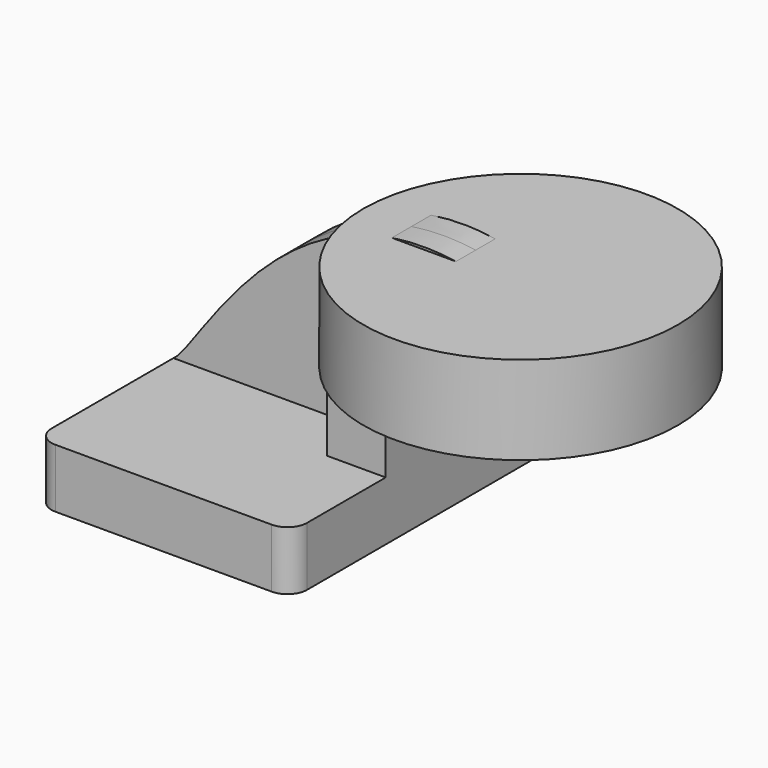
from build123d import *

# Parameters (mm, degrees)
F1_DEPTH = 63.5
F0_W     = 25.4
F0_H     = 19.05
F2_DEPTH = 25.4
F3_DEPTH = 7.9375
F5_R     = 6.35


with BuildPart() as f1:
    # F0 (on Front) → F1 (new body, symmetric)
    with BuildSketch(Plane.XZ):
        Polygon((-41.275, -9.525), (41.275, -9.525), (41.275, 9.525), (22.225, 9.525), (-41.275, 9.525), align=None)
    extrude(amount=F1_DEPTH, both=True)

    # F0 (on Front) → F2 (join, symmetric)
    with BuildSketch(Plane.XZ):
        with BuildLine():
            Line((22.225, 9.525), (41.275, 9.525))
            Line((41.275, 9.525), (41.275, 30.3276))
            ThreePointArc((41.275, 30.3276), (45.9246798487, 41.5529201513), (57.15, 46.2026))
            Line((57.15, 46.2026), (64.5218447655, 46.2026))
            Line((64.5218447655, 46.2026), (64.5218447655, 65.2526))
            Line((64.5218447655, 65.2526), (57.15, 65.2526))
            ThreePointArc((57.15, 65.2526), (32.4542956671, 55.0233043329), (22.225, 30.3276))
            Line((22.225, 30.3276), (22.225, 9.525))
        make_face()
        with Locations((77.2218447655, 55.7276)):
            Rectangle(F0_W, F0_H)
    extrude(amount=F2_DEPTH, both=True)

    # F0 (on Front) → F3 (join, symmetric)
    with BuildSketch(Plane.XZ):
        with BuildLine():
            add(Edge.make_bspline(
                [(-41.275, 9.525), (-32.8745953739, 14.7935664281), (-3.6162044853, 80.2140161395), (57.15, 65.2526)],
                knots=[0, 0, 0, 0, 113.1063483044, 113.1063483044, 113.1063483044, 113.1063483044], degree=3))
            Line((-41.275, 9.525), (22.225, 9.525))
            Line((22.225, 9.525), (22.225, 30.3276))
            ThreePointArc((22.225, 30.3276), (32.4542956671, 55.0233043329), (57.15, 65.2526))
        make_face()
    extrude(amount=F3_DEPTH, both=True)

    # F0 (on Front) → F4 (revolve)
    with BuildSketch(Plane.XZ):
        Polygon((64.5218447655, 66.675), (64.5218447655, 65.2526), (89.9218447655, 65.2526), (89.9218447655, 46.2026), (89.9218447655, 38.1), (115.3218447655, 38.1), (115.3218447655, 66.675), align=None)
    revolve(axis=Axis((64.5218447655, 0, 52.3875), (0, 0, 1)))

    # F5
    f5_edges = [f1.edges().sort_by_distance(p)[0] for p in [
        (41.275, -63.5, 0),
        (-41.275, -63.5, 0),
        (41.275, 63.5, 0),
        (-41.275, 63.5, 0),
    ]]
    fillet(f5_edges, radius=F5_R)


solid = f1.part
